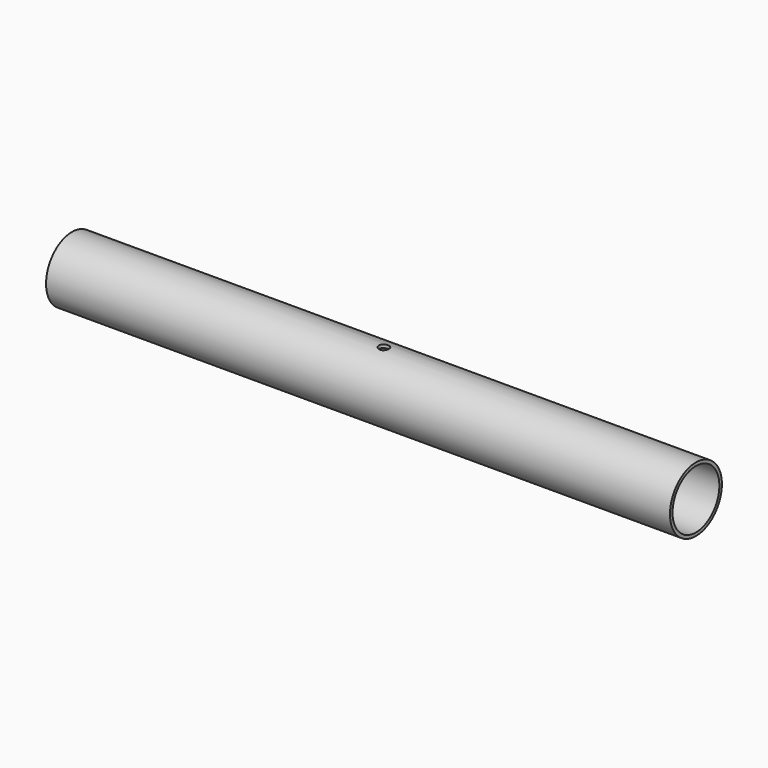
from build123d import *

# Parameters (mm, degrees)
F0_R     = 10.15
F1_DEPTH = 195
F2_R     = 9.15
F3_DEPTH = 195.001
F5_DEPTH = 10.151
F6_R     = 1.55
F7_DEPTH = 10.151


with BuildPart() as f1:
    # F0 (on Right) → F1 (new body)
    with BuildSketch(Plane.YZ):
        Circle(F0_R)
    extrude(amount=F1_DEPTH)

    # F2 (on face) → F3 (cut, through all)
    with BuildSketch(Plane.YZ.offset(195)):
        Circle(F2_R)
    extrude(amount=-F3_DEPTH, mode=Mode.SUBTRACT)

    # F4 (on Top) → F5 (cut, through all)
    with BuildSketch(Plane.XY):
        with BuildLine():
            add(Edge.make_bspline(
                [(105, 0), (105, 8.660254), (93.75, 4.330127), (82.5, 0), (93.75, -4.330127), (105, -8.660254), (105, 0)],
                knots=[0, 0, 0, 2.094395, 2.094395, 4.18879, 4.18879, 6.283185, 6.283185, 6.283185], degree=2, weights=[1, 0.5, 1, 0.5, 1, 0.5, 1]))
        make_face()
    extrude(amount=-F5_DEPTH, mode=Mode.SUBTRACT)

    # F6 (on Top) → F7 (cut, through all)
    with BuildSketch(Plane.XY):
        with Locations((97.5, 0)):
            Circle(F6_R)
    extrude(amount=F7_DEPTH, mode=Mode.SUBTRACT)


solid = f1.part
